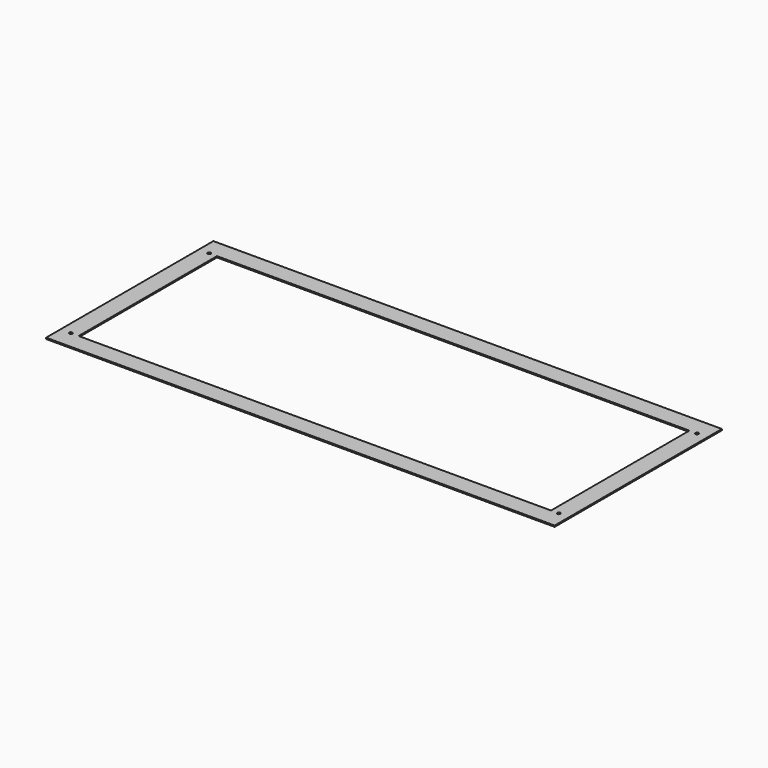
from build123d import *

# Parameters (mm, degrees)
F0_W     = 625.475
F0_H     = 257.175
F0_R     = 1.905
F0_W_2   = 581.025
F0_H_2   = 212.725
F1_DEPTH = 1.524


with BuildPart() as f1:
    # F0 (on Top) → F1 (new body)
    with BuildSketch(Plane.XY):
        with Locations((300.0375, 106.3625)):
            Rectangle(F0_W, F0_H)
        Circle(F0_R, mode=Mode.SUBTRACT)
        with Locations((600.075, 0)):
            Circle(F0_R, mode=Mode.SUBTRACT)
        with Locations((300.0375, 106.3625)):
            Rectangle(F0_W_2, F0_H_2, mode=Mode.SUBTRACT)
        with Locations((0, 212.725)):
            Circle(F0_R, mode=Mode.SUBTRACT)
        with Locations((600.075, 212.725)):
            Circle(F0_R, mode=Mode.SUBTRACT)
    extrude(amount=F1_DEPTH)


solid = f1.part
